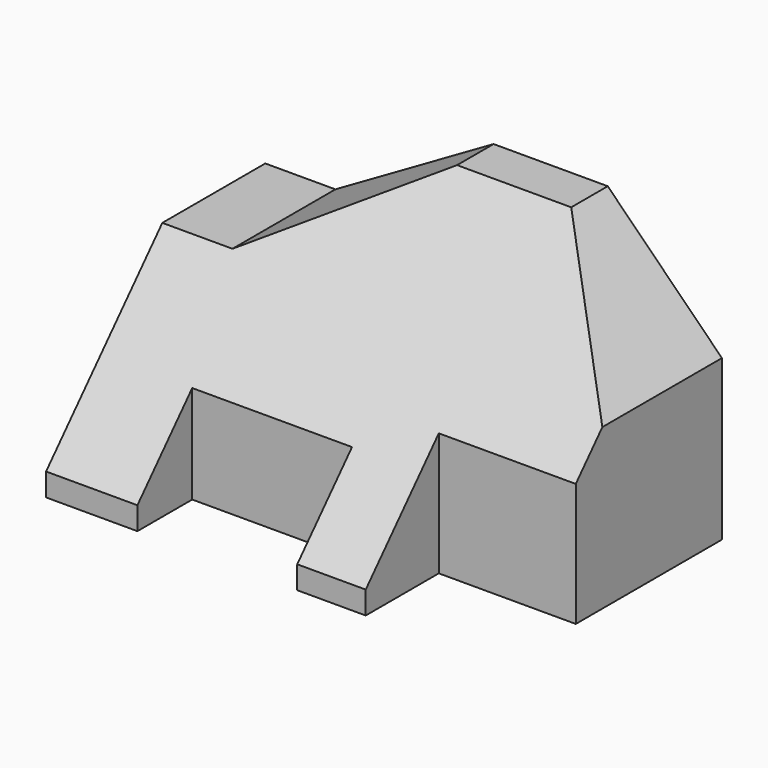
from build123d import *

# Parameters (mm, degrees)
F1_DEPTH = 60
F3_DEPTH = 60.001
F5_DEPTH = 100.001
F6_DEPTH = 100.001


with BuildPart() as f1:
    # F0 (on Top) → F1 (new body)
    with BuildSketch(Plane.XY):
        Polygon((0, 60), (0, 0), (20, 0), (20, 15), (55, 15), (55, 0), (70, 0), (70, 20), (100, 20), (100, 60), align=None)
    extrude(amount=F1_DEPTH)

    # F2 (on Front) → F3 (cut, through all)
    with BuildSketch(Plane.XZ):
        Polygon((15.358984, 40), (50, 60), (0, 60), (0, 40), align=None)
        Polygon((100, 60), (75, 60), (100, 35), align=None)
    extrude(amount=-F3_DEPTH, mode=Mode.SUBTRACT)

    # F4 (on face) → F5 (cut, through all)
    with BuildSketch(Plane.YZ.offset(100)):
        Polygon((0, 5), (50, 60), (0, 60), align=None)
    extrude(amount=-F5_DEPTH, mode=Mode.SUBTRACT)

    # F4 (on face) → F6 (cut, through all)
    with BuildSketch(Plane.YZ.offset(100)):
        Polygon((27.272727, 35), (50, 60), (0, 60), (0, 5), (20, 27), (20, 35), align=None)
    extrude(amount=-F6_DEPTH, mode=Mode.SUBTRACT)


solid = f1.part
